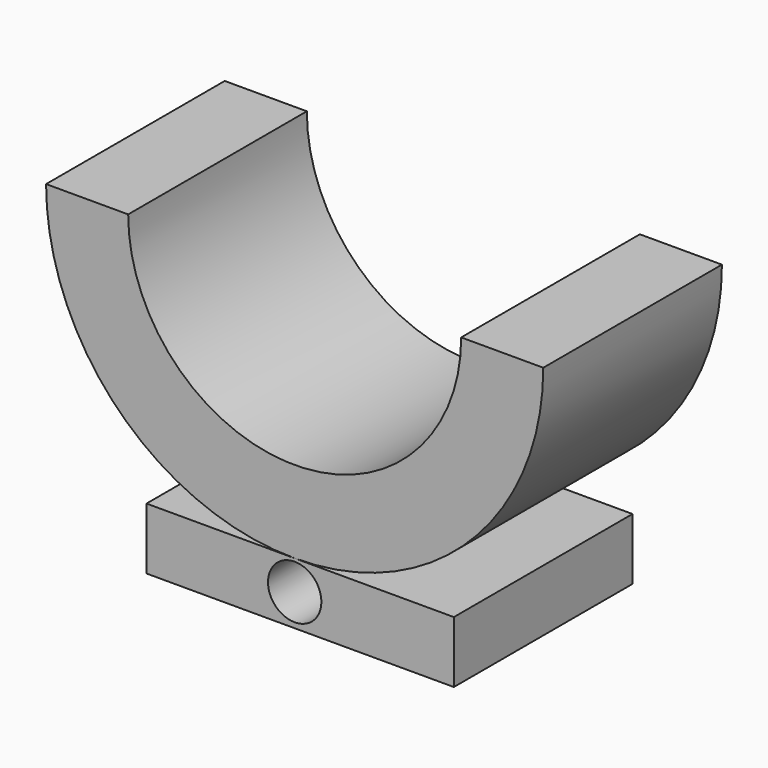
from build123d import *

# Parameters (mm, degrees)
F2_DEPTH = 25.4
F1_R     = 6.073794
F3_DEPTH = 134.878621


with BuildPart() as f2:
    # F0 (on Front) → F2 (new body, symmetric)
    with BuildSketch(Plane.XZ):
        with BuildLine():
            Line((-37.877875, 0), (-56.552951, 0))
            ThreePointArc((-56.552951, 0), (-39.988975, -39.988975), (0, -56.552951))
            ThreePointArc((0, -56.552951), (39.988975, -39.988975), (56.552951, 0))
            Line((56.552951, 0), (37.877875, 0))
            ThreePointArc((37.877875, 0), (0, -37.877875), (-37.877875, 0))
        make_face()
        Polygon((36.210477, -56.552951), (0, -56.552951), (-33.709429, -56.552951), (-33.709429, -70.566222), (36.210477, -70.566222), align=None)
    extrude(amount=F2_DEPTH, both=True)

    # F1 (on Front) → F3 (cut)
    with BuildSketch(Plane.XZ):
        with Locations((0, -63.301817)):
            Circle(F1_R)
    extrude(amount=F3_DEPTH, mode=Mode.SUBTRACT)


solid = f2.part
